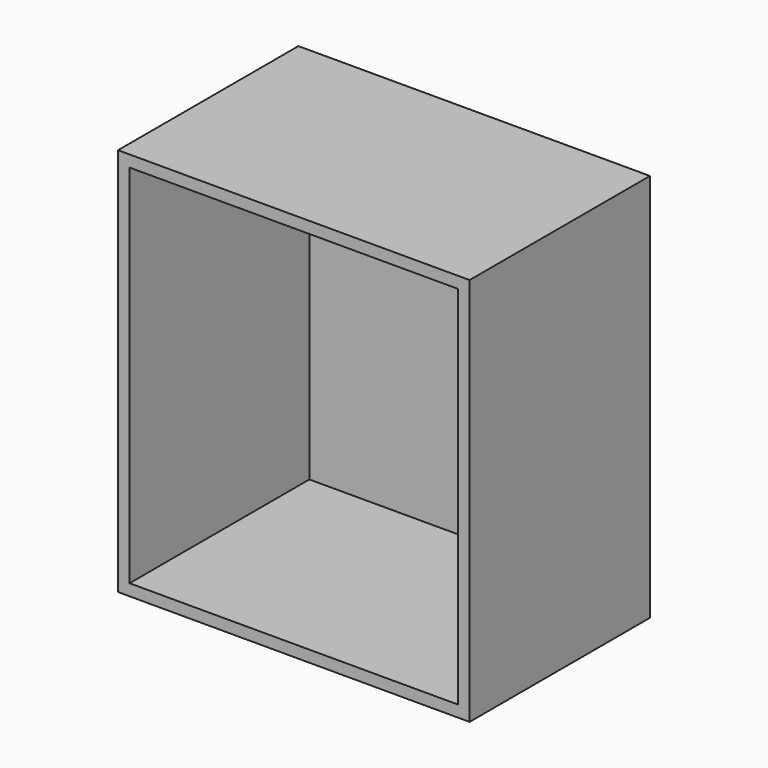
from build123d import *

# Parameters (mm, degrees)
F0_W     = 774.700008
F0_H     = 857.250008
F0_W_2   = 723.9
F0_H_2   = 806.45
F1_DEPTH = 495.3
F2_W     = 1.5875
F2_H     = 857.250008
F3_DEPTH = 774.700008


with BuildPart() as f1:
    # F0 (on Front) → F1 (new body)
    with BuildSketch(Plane.XZ):
        with Locations((0.699859, 75.370277)):
            Rectangle(F0_W, F0_H)
        with Locations((0.699859, 75.370277)):
            Rectangle(F0_W_2, F0_H_2, mode=Mode.SUBTRACT)
    extrude(amount=F1_DEPTH)

    # F2 (on face) → F3 (join, through all)
    with BuildSketch(Plane.YZ.offset(388.049863)):
        with Locations((0.79375, 75.370277)):
            Rectangle(F2_W, F2_H)
    extrude(amount=-F3_DEPTH)


solid = f1.part
